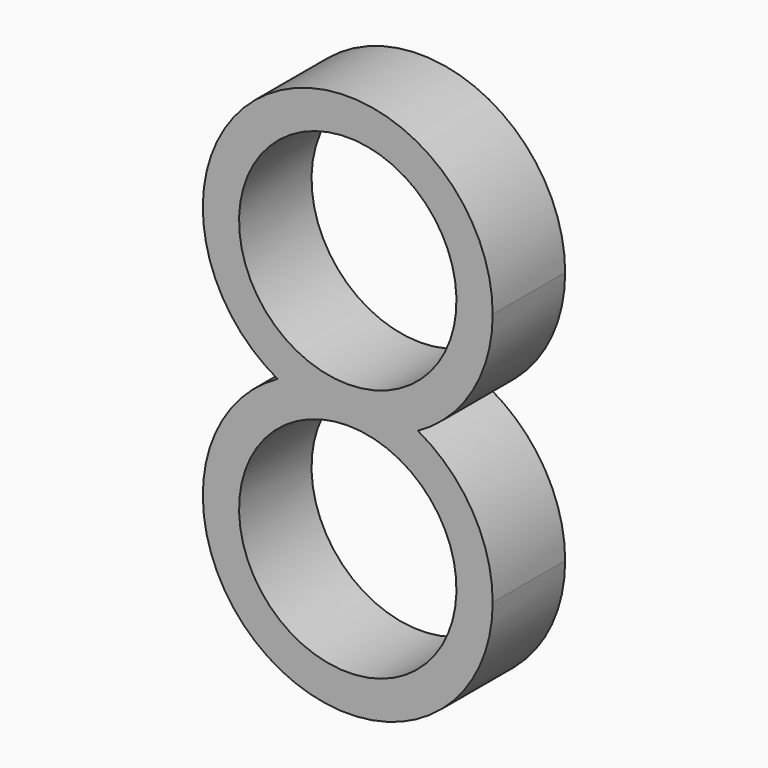
from build123d import *

# Parameters (mm, degrees)
F1_DEPTH = 25


with BuildPart() as f1:
    # F0 (on Front) → F1 (new body)
    with BuildSketch(Plane.XZ):
        with BuildLine():
            ThreePointArc((-19.364916731, -35), (-10, -31.2701665379), (0, -30))
            ThreePointArc((0, -30), (10, -31.2701665379), (19.364916731, -35))
            ThreePointArc((19.364916731, -35), (34.4571956871, -20.3150600634), (40, 0))
            ThreePointArc((40, 0), (-20.3150600634, 34.4571956871), (-19.364916731, -35))
        make_face()
        with BuildLine():
            ThreePointArc((0, -30), (-21.2132034356, 21.2132034356), (30, 0))
            ThreePointArc((30, 0), (21.2132034356, -21.2132034356), (0, -30))
        make_face(mode=Mode.SUBTRACT)
        with BuildLine():
            ThreePointArc((40, -70), (34.4571956871, -49.6849399366), (19.364916731, -35))
            ThreePointArc((19.364916731, -35), (10, -38.7298334621), (0, -40))
            ThreePointArc((0, -40), (-10, -38.7298334621), (-19.364916731, -35))
            ThreePointArc((-19.364916731, -35), (-20.3150600634, -104.4571956871), (40, -70))
        make_face()
        with BuildLine():
            ThreePointArc((30, -70), (-21.2132034356, -91.2132034356), (0, -40))
            ThreePointArc((0, -40), (21.2132034356, -48.7867965644), (30, -70))
        make_face(mode=Mode.SUBTRACT)
        with BuildLine():
            ThreePointArc((19.364916731, -35), (10, -31.2701665379), (0, -30))
            ThreePointArc((0, -30), (-10, -31.2701665379), (-19.364916731, -35))
            ThreePointArc((-19.364916731, -35), (-10, -38.7298334621), (0, -40))
            ThreePointArc((0, -40), (10, -38.7298334621), (19.364916731, -35))
        make_face()
    extrude(amount=F1_DEPTH)


solid = f1.part
